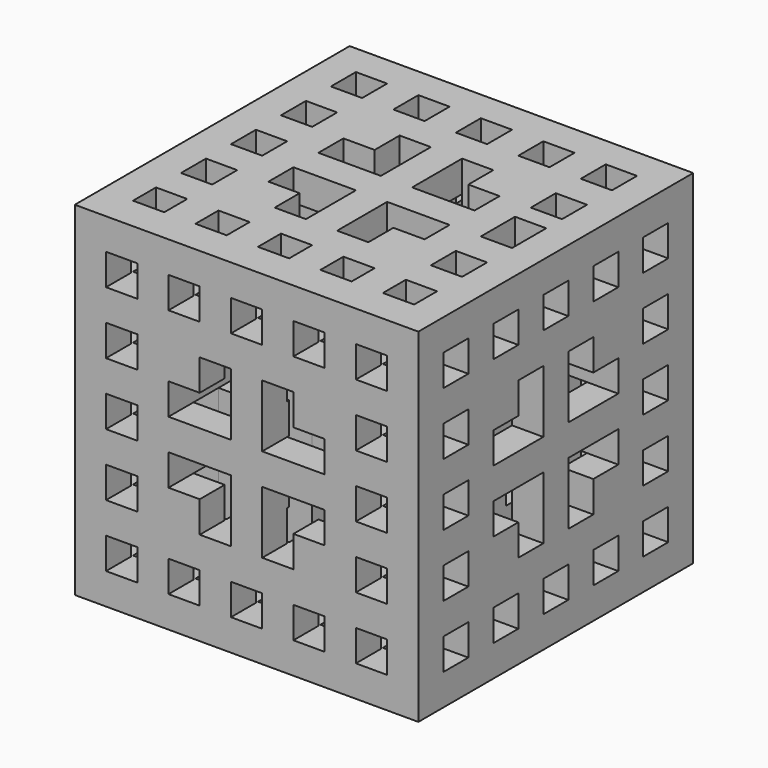
from build123d import *

# Parameters (mm, degrees)
F0_W     = 55
F0_H     = 55
F0_W_2   = 5
F0_H_2   = 4.601557
F0_H_3   = 5
F0_H_4   = 6.839216
F1_DEPTH = 55
F2_W     = 5
F2_H     = 5
F3_DEPTH = 55
F4_W     = 5
F4_H     = 5
F5_DEPTH = 55


with BuildPart() as f1:
    # F0 (on Top) → F1 (new body)
    with BuildSketch(Plane.XY):
        with Locations((0.036688, 27.500019)):
            Rectangle(F0_W, F0_H)
        with Locations((-19.963312, 7.699241)):
            Rectangle(F0_W_2, F0_H_2, mode=Mode.SUBTRACT)
        with Locations((-9.963312, 7.699241)):
            Rectangle(F0_W_2, F0_H_2, mode=Mode.SUBTRACT)
        with Locations((0.036688, 7.699241)):
            Rectangle(F0_W_2, F0_H_2, mode=Mode.SUBTRACT)
        with Locations((-19.963312, 17.500019)):
            Rectangle(F0_W_2, F0_H_3, mode=Mode.SUBTRACT)
        Polygon((-12.463312, 20.000019), (-12.463312, 25.000019), (-2.463312, 25.000019), (-2.463312, 15.000019), (-7.463312, 15.000019), (-7.463312, 20.000019), align=None, mode=Mode.SUBTRACT)
        with Locations((10.036688, 7.699241)):
            Rectangle(F0_W_2, F0_H_2, mode=Mode.SUBTRACT)
        with Locations((20.036688, 7.699241)):
            Rectangle(F0_W_2, F0_H_2, mode=Mode.SUBTRACT)
        Polygon((7.536688, 20.000019), (7.536688, 15.000019), (2.536688, 15.000019), (2.536688, 25.000019), (12.536688, 25.000019), (12.536688, 20.000019), align=None, mode=Mode.SUBTRACT)
        with Locations((20.036688, 17.500019)):
            Rectangle(F0_W_2, F0_H_3, mode=Mode.SUBTRACT)
        with Locations((-19.963312, 27.500019)):
            Rectangle(F0_W_2, F0_H_3, mode=Mode.SUBTRACT)
        with Locations((-19.963312, 37.500019)):
            Rectangle(F0_W_2, F0_H_3, mode=Mode.SUBTRACT)
        Polygon((-7.463312, 35.000019), (-7.463312, 40.000019), (-2.463312, 40.000019), (-2.463312, 30.000019), (-12.463312, 30.000019), (-12.463312, 35.000019), align=None, mode=Mode.SUBTRACT)
        with Locations((-19.963312, 47.500019)):
            Rectangle(F0_W_2, F0_H_3, mode=Mode.SUBTRACT)
        with Locations((-9.963312, 47.500019)):
            Rectangle(F0_W_2, F0_H_3, mode=Mode.SUBTRACT)
        with Locations((0.036688, 47.500019)):
            Rectangle(F0_W_2, F0_H_3, mode=Mode.SUBTRACT)
        Polygon((2.536688, 30.000019), (2.536688, 40.000019), (7.536688, 40.000019), (7.536688, 35.000019), (12.536688, 35.000019), (12.536688, 30.000019), align=None, mode=Mode.SUBTRACT)
        with Locations((20.036688, 28.419627)):
            Rectangle(F0_W_2, F0_H_4, mode=Mode.SUBTRACT)
        with Locations((20.036688, 37.500019)):
            Rectangle(F0_W_2, F0_H_3, mode=Mode.SUBTRACT)
        with Locations((10.036688, 47.500019)):
            Rectangle(F0_W_2, F0_H_3, mode=Mode.SUBTRACT)
        with Locations((20.036688, 47.500019)):
            Rectangle(F0_W_2, F0_H_3, mode=Mode.SUBTRACT)
    extrude(amount=F1_DEPTH)

    # F2 (on face) → F3 (cut)
    with BuildSketch(Plane.XZ.offset(-1.9e-05)):
        with Locations((-19.963312, 47.5)):
            Rectangle(F2_W, F2_H)
        with Locations((-9.963312, 47.5)):
            Rectangle(F2_W, F2_H)
        with Locations((0.036688, 47.5)):
            Rectangle(F2_W, F2_H)
        with Locations((10.036688, 47.5)):
            Rectangle(F2_W, F2_H)
        with Locations((20.036688, 47.5)):
            Rectangle(F2_W, F2_H)
        with Locations((20.036688, 37.5)):
            Rectangle(F2_W, F2_H)
        with Locations((20.036688, 27.5)):
            Rectangle(F2_W, F2_H)
        with Locations((20.036688, 17.5)):
            Rectangle(F2_W, F2_H)
        with Locations((20.036688, 7.5)):
            Rectangle(F2_W, F2_H)
        with Locations((10.036688, 7.5)):
            Rectangle(F2_W, F2_H)
        with Locations((0.036688, 7.5)):
            Rectangle(F2_W, F2_H)
        with Locations((-9.963312, 7.5)):
            Rectangle(F2_W, F2_H)
        with Locations((-19.963312, 7.5)):
            Rectangle(F2_W, F2_H)
        with Locations((-19.963312, 17.5)):
            Rectangle(F2_W, F2_H)
        with Locations((-19.963312, 27.5)):
            Rectangle(F2_W, F2_H)
        with Locations((-19.963312, 37.5)):
            Rectangle(F2_W, F2_H)
        Polygon((-2.463312, 40), (-7.463312, 40), (-7.463312, 35), (-12.463312, 35), (-12.463312, 30), (-2.463312, 30), align=None)
        Polygon((12.536688, 30), (12.536688, 35), (7.536688, 35), (7.536688, 40), (2.536688, 40), (2.536688, 30), align=None)
        Polygon((12.536688, 25), (2.536688, 25), (2.536688, 15), (7.536688, 15), (7.536688, 20), (12.536688, 20), align=None)
        Polygon((-2.463312, 25), (-12.463312, 25), (-12.463312, 20), (-7.463312, 20), (-7.463312, 15), (-2.463312, 15), align=None)
    extrude(amount=-F3_DEPTH, mode=Mode.SUBTRACT)

    # F4 (on face) → F5 (cut)
    with BuildSketch(Plane.YZ.offset(27.536688)):
        with Locations((7.500019, 47.5)):
            Rectangle(F4_W, F4_H)
        with Locations((17.500019, 47.5)):
            Rectangle(F4_W, F4_H)
        with Locations((27.500019, 47.5)):
            Rectangle(F4_W, F4_H)
        Polygon((35.000019, 40), (30.000019, 40), (30.000019, 30), (40.000019, 30), (40.000019, 35), (35.000019, 35), align=None)
        with Locations((37.500019, 47.5)):
            Rectangle(F4_W, F4_H)
        with Locations((47.500019, 47.5)):
            Rectangle(F4_W, F4_H)
        with Locations((7.500019, 37.5)):
            Rectangle(F4_W, F4_H)
        with Locations((7.500019, 27.5)):
            Rectangle(F4_W, F4_H)
        with Locations((7.500019, 17.5)):
            Rectangle(F4_W, F4_H)
        with Locations((7.500019, 7.5)):
            Rectangle(F4_W, F4_H)
        Polygon((25.000019, 40), (20.000019, 40), (20.000019, 35), (15.000019, 35), (15.000019, 30), (25.000019, 30), align=None)
        Polygon((25.000019, 25), (15.000019, 25), (15.000019, 20), (20.000019, 20), (20.000019, 15), (25.000019, 15), align=None)
        with Locations((17.500019, 7.5)):
            Rectangle(F4_W, F4_H)
        with Locations((27.500019, 7.5)):
            Rectangle(F4_W, F4_H)
        with Locations((37.500019, 7.5)):
            Rectangle(F4_W, F4_H)
        with Locations((47.500019, 7.5)):
            Rectangle(F4_W, F4_H)
        with Locations((47.500019, 17.5)):
            Rectangle(F4_W, F4_H)
        with Locations((47.500019, 27.5)):
            Rectangle(F4_W, F4_H)
        with Locations((47.500019, 37.5)):
            Rectangle(F4_W, F4_H)
        Polygon((40.000019, 25), (30.000019, 25), (30.000019, 15), (35.000019, 15), (35.000019, 20), (40.000019, 20), align=None)
        with Locations((7.500019, 47.5)):
            Rectangle(F4_W, F4_H)
    extrude(amount=-F5_DEPTH, mode=Mode.SUBTRACT)


solid = f1.part
